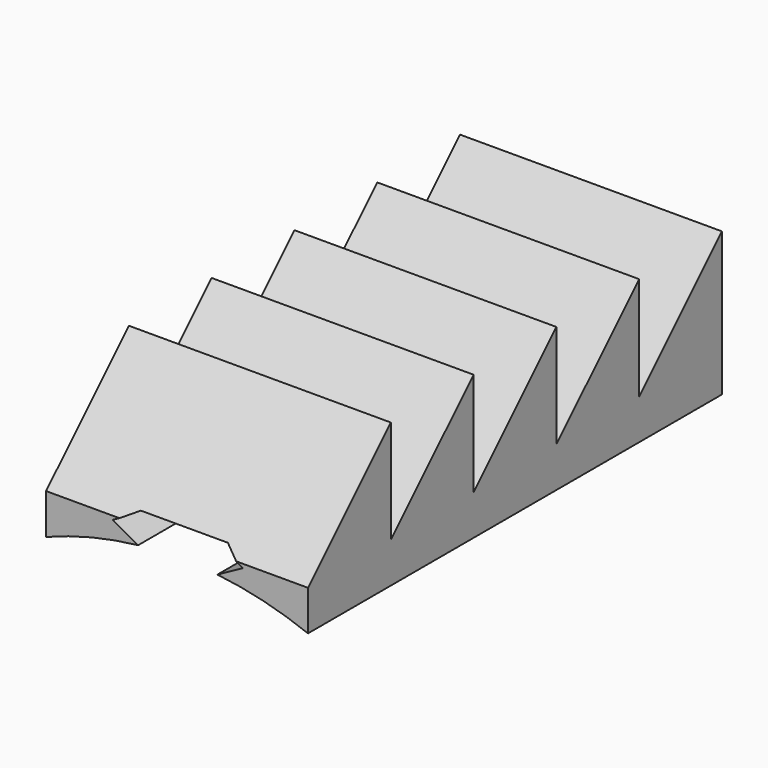
from build123d import *

# Parameters (mm, degrees)
F1_DEPTH  = 12.7
F3_R      = 17.4625
F4_DEPTH  = 25.4
F11_DEPTH = 25.4


with BuildPart() as f1:
    # F0 (on Right) → F1 (new body)
    with BuildSketch(Plane.YZ):
        Polygon((-27.0339550276, 20.3022155698), (-27.0339550276, 25.3198655094), (-32.0516049672, 20.3022155698), (-32.0516049672, 16.7292077094), (-6.9633552689, 16.7292077094), (-6.9633552689, 20.3022155698), (-6.9633552689, 25.3198655094), (-11.9810052086, 20.3022155698), (-11.9810052086, 25.3198655094), (-16.9986551483, 20.3022155698), (-16.9986551483, 25.3198655094), (-22.0163050879, 20.3022155698), (-22.0163050879, 25.3198655094), align=None)
    extrude(amount=F1_DEPTH)

    # F3 (on plane+point) → F4 (cut)
    with BuildSketch(Plane.XZ.offset(6.9633552689)):
        with Locations((6.3661262393, 2.0827455446)):
            Circle(F3_R)
    extrude(amount=F4_DEPTH, mode=Mode.SUBTRACT)


with BuildPart() as f5_1:
    # F5: copy of F1
    add(f1.part)


with BuildPart() as f1_1:
    # F6: moved
    add(f1.part.moved(Location((0, 26.1449348181, 0))))


with BuildPart() as f5_1_1:
    # F7: moved
    add(f5_1.part)

    # F10 (on plane+point) → F11 (cut)
    with BuildSketch(Plane.XZ.offset(6.9633552689)):
        Polygon((6.3879799563, 18.3859299868), (9.5524290794, 20.1198235154), (8.4976138382, 20.6977874041), (7.4427951975, 20.6977874041), (5.3331647151, 20.6977874041), (4.2783460745, 20.6977874041), (3.2235308333, 20.1198235154), align=None)
    extrude(amount=F11_DEPTH, mode=Mode.SUBTRACT)


with BuildPart() as f1_2:
    # F7: moved
    add(f1_1.part)


solid = f5_1_1.part
